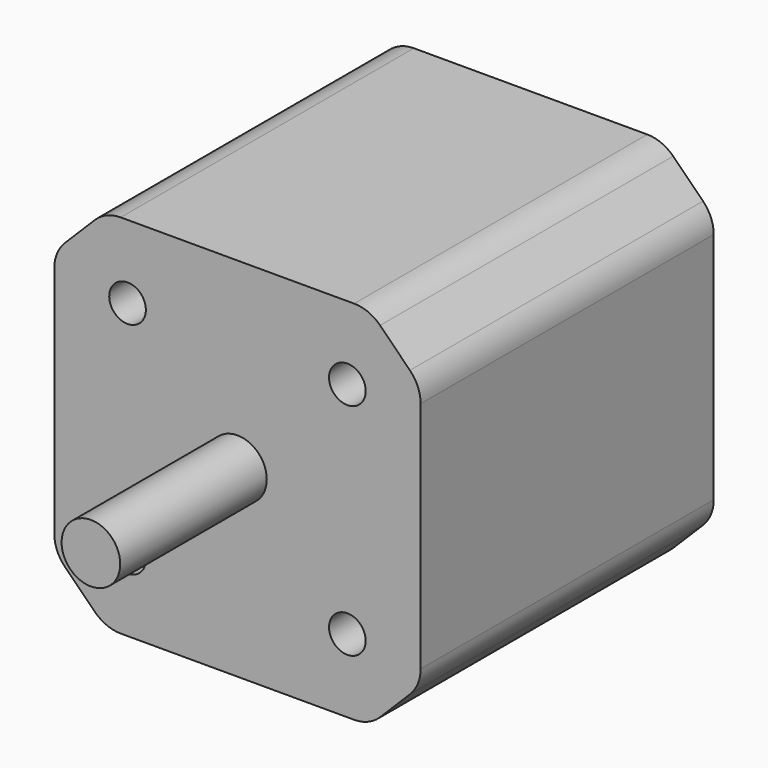
from build123d import *

# Parameters (mm, degrees)
F0_W          = 50
F0_H          = 50
F1_DEPTH      = 25
F1_DEPTH_BACK = 25
F2_R          = 4
F3_DEPTH      = 25
F4_SIZE       = 7
F5_R          = 5
F6_R          = 2.5
F7_DEPTH      = 50


with BuildPart() as f1:
    # F0 (on Front) → F1 (new body, two sides)
    with BuildSketch(Plane.XZ) as f1_sk:
        Rectangle(F0_W, F0_H)
    extrude(amount=F1_DEPTH)
    extrude(f1_sk.sketch, amount=-F1_DEPTH_BACK)

    # F2 (on face) → F3 (join)
    with BuildSketch(Plane.XZ.offset(25)):
        Circle(F2_R)
    extrude(amount=F3_DEPTH)

    # F4
    f4_edges = [f1.edges().sort_by_distance(p)[0] for p in [
        (-25, 0, 25),
        (25, 0, 25),
        (25, 0, -25),
        (-25, 0, -25),
    ]]
    chamfer(f4_edges, length=F4_SIZE)

    # F5
    f5_edges = [f1.edges().sort_by_distance(p)[0] for p in [
        (-18, 0, 25),
        (-25, 0, 18),
        (18, 0, 25),
        (25, 0, 18),
        (25, 0, -18),
        (18, 0, -25),
        (-18, 0, -25),
        (-25, 0, -18),
    ]]
    fillet(f5_edges, radius=F5_R)

    # F6 (on face) → F7 (cut)
    with BuildSketch(Plane(origin=(0, 25, 0), x_dir=(-1, 0, 0), z_dir=(0, 1, 0))):
        with Locations((-15, 15)):
            Circle(F6_R)
        with Locations((15, 15)):
            Circle(F6_R)
        with Locations((15, -15)):
            Circle(F6_R)
        with Locations((-15, -15)):
            Circle(F6_R)
    extrude(amount=-F7_DEPTH, mode=Mode.SUBTRACT)


solid = f1.part
